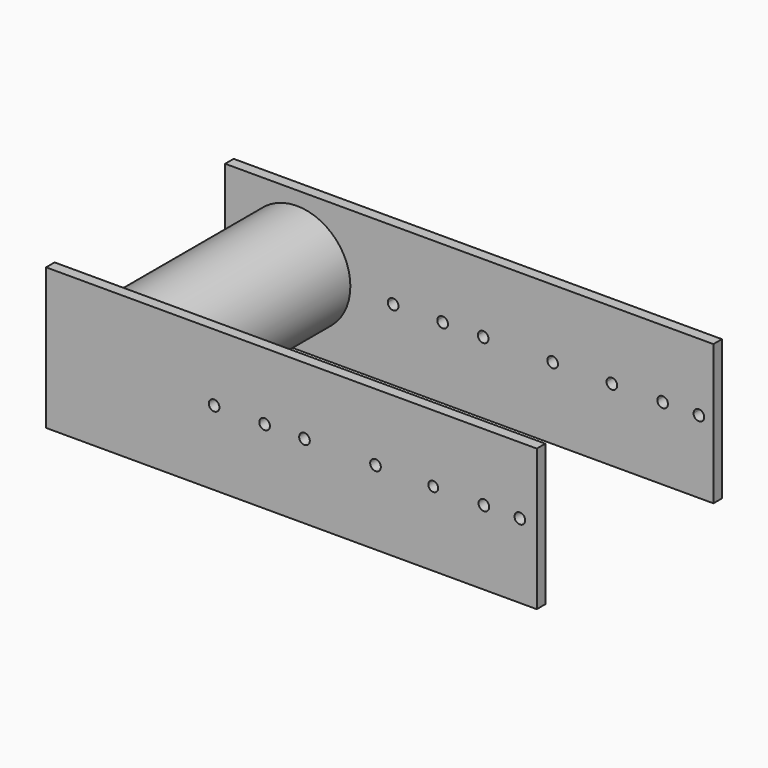
from build123d import *

# Parameters (mm, degrees)
F0_R     = 12.7
F1_DEPTH = 50.8
F2_R     = 1.27
F3_DEPTH = 2.54
F4_R     = 1.27
F5_DEPTH = 2.54
F7_DEPTH = 2.54
F8_W     = 116.849138
F8_H     = 33.673273
F8_R     = 1.27
F8_R_2   = 1.267219
F8_R_3   = 1.172691
F9_DEPTH = 2.54


with BuildPart() as f1:
    # F0 (on Front) → F1 (new body)
    with BuildSketch(Plane.XZ):
        Circle(F0_R)
    extrude(amount=F1_DEPTH)

    # F2 (on face) → F3 (join)
    with BuildSketch(Plane.XZ.offset(50.8)):
        Circle(F2_R)
    extrude(amount=F3_DEPTH)

    # F4 (on face) → F5 (join)
    with BuildSketch(Plane(origin=(0, 0, 0), x_dir=(-1, 0, 0), z_dir=(0, 1, 0))):
        Circle(F4_R)
    extrude(amount=F5_DEPTH)

    # F6 (on Front) → F7 (join)
    with BuildSketch(Plane.XZ):
        with BuildLine():
            Line((21.612578, -0.492717), (-17.124444, -0.719515))
            Line((-17.124444, -0.719515), (-17.124444, -17.412249))
            Line((-17.124444, -17.412249), (99.149086, -17.412249))
            Line((99.149086, -17.412249), (99.149086, -0.038756))
            Line((99.149086, -0.038756), (96.968265, -0.051524))
            ThreePointArc((96.968265, -0.051524), (96.968281, -0.055242), (96.968286, -0.05896))
            ThreePointArc((96.968286, -0.05896), (95.702004, -1.328954), (94.428308, -0.066395))
            Line((94.428308, -0.066395), (88.334388, -0.102074))
            ThreePointArc((88.334388, -0.102074), (88.334405, -0.105792), (88.33441, -0.109509))
            ThreePointArc((88.33441, -0.109509), (87.068128, -1.379504), (85.794432, -0.116945))
            Line((85.794432, -0.116945), (76.246966, -0.172843))
            ThreePointArc((76.246966, -0.172843), (76.246982, -0.176561), (76.246987, -0.180279))
            ThreePointArc((76.246987, -0.180279), (74.980705, -1.450273), (73.707009, -0.187714))
            Line((73.707009, -0.187714), (62.143279, -0.255418))
            ThreePointArc((62.143279, -0.255418), (62.143295, -0.259135), (62.143301, -0.262853))
            ThreePointArc((62.143301, -0.262853), (60.877019, -1.532848), (59.603323, -0.270289))
            Line((59.603323, -0.270289), (45.592063, -0.352322))
            ThreePointArc((45.592063, -0.352322), (45.592079, -0.35604), (45.592085, -0.359757))
            ThreePointArc((45.592085, -0.359757), (44.325802, -1.629752), (43.052106, -0.367193))
            Line((43.052106, -0.367193), (35.948796, -0.408781))
            ThreePointArc((35.948796, -0.408781), (35.948813, -0.412499), (35.948818, -0.416217))
            ThreePointArc((35.948818, -0.416217), (34.682536, -1.686211), (33.40884, -0.423652))
            Line((33.40884, -0.423652), (24.152535, -0.477846))
            ThreePointArc((24.152535, -0.477846), (24.152551, -0.481564), (24.152557, -0.485282))
            ThreePointArc((24.152557, -0.485282), (22.886274, -1.755276), (21.612578, -0.492717))
        make_face()
        with BuildLine():
            Line((99.149086, 15.97322), (-17.124444, 15.97322))
            Line((-17.124444, 15.97322), (-17.124444, -0.719515))
            Line((-17.124444, -0.719515), (21.612578, -0.492717))
            ThreePointArc((21.612578, -0.492717), (22.875121, 0.784697), (24.152535, -0.477846))
            Line((24.152535, -0.477846), (33.40884, -0.423652))
            ThreePointArc((33.40884, -0.423652), (34.671383, 0.853761), (35.948796, -0.408781))
            Line((35.948796, -0.408781), (43.052106, -0.367193))
            ThreePointArc((43.052106, -0.367193), (44.314649, 0.910221), (45.592063, -0.352322))
            Line((45.592063, -0.352322), (59.603323, -0.270289))
            ThreePointArc((59.603323, -0.270289), (60.865865, 1.007125), (62.143279, -0.255418))
            Line((62.143279, -0.255418), (73.707009, -0.187714))
            ThreePointArc((73.707009, -0.187714), (74.969552, 1.089699), (76.246966, -0.172843))
            Line((76.246966, -0.172843), (85.794432, -0.116945))
            ThreePointArc((85.794432, -0.116945), (87.056975, 1.160469), (88.334388, -0.102074))
            Line((88.334388, -0.102074), (94.428308, -0.066395))
            ThreePointArc((94.428308, -0.066395), (95.690851, 1.211018), (96.968265, -0.051524))
            Line((96.968265, -0.051524), (99.149086, -0.038756))
            Line((99.149086, -0.038756), (99.149086, 15.97322))
        make_face()
    extrude(amount=-F7_DEPTH)

    # F8 (on face) → F9 (join)
    with BuildSketch(Plane.XZ.offset(50.8)):
        with Locations((41.337759, -0.882761)):
            Rectangle(F8_W, F8_H)
        Circle(F8_R, mode=Mode.SUBTRACT)
        with Locations((22.921631, 0)):
            Circle(F8_R, mode=Mode.SUBTRACT)
        with Locations((34.950949, 0)):
            Circle(F8_R, mode=Mode.SUBTRACT)
        with Locations((44.44854, 0)):
            Circle(F8_R, mode=Mode.SUBTRACT)
        with Locations((61.357126, 0)):
            Circle(F8_R_2, mode=Mode.SUBTRACT)
        with Locations((75.108536, 0)):
            Circle(F8_R_3, mode=Mode.SUBTRACT)
        with Locations((87.163217, 0)):
            Circle(F8_R, mode=Mode.SUBTRACT)
        with Locations((95.73599, 0)):
            Circle(F8_R, mode=Mode.SUBTRACT)
    extrude(amount=F9_DEPTH)


solid = f1.part
